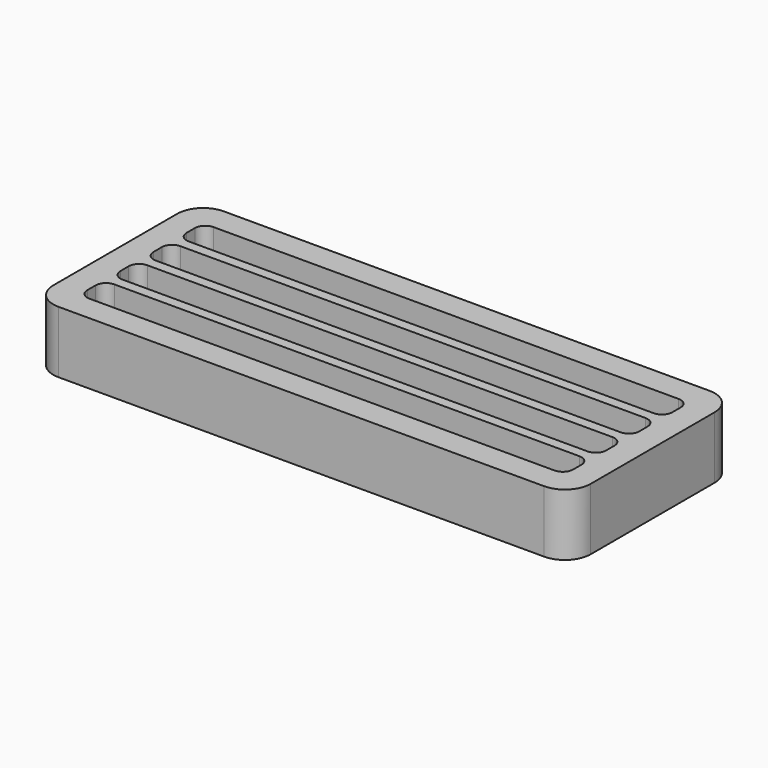
from build123d import *

# Parameters (mm, degrees)
F1_DEPTH = 10
F2_DEPTH = 2


with BuildPart() as f1:
    # F0 (on Top) → F1 (new body)
    with BuildSketch(Plane.XY):
        with BuildLine():
            Line((94, 35), (0, 35))
            ThreePointArc((0, 35), (-3.535534, 33.535534), (-5, 30))
            Line((-5, 30), (-5, 0))
            ThreePointArc((-5, 0), (-3.535534, -3.535534), (0, -5))
            Line((0, -5), (94, -5))
            ThreePointArc((94, -5), (97.535534, -3.535534), (99, 0))
            Line((99, 0), (99, 30))
            ThreePointArc((99, 30), (97.535534, 33.535534), (94, 35))
        make_face()
        with BuildLine():
            ThreePointArc((0, 4), (0.585786, 5.414214), (2, 6))
            Line((2, 6), (92, 6))
            ThreePointArc((92, 6), (93.414214, 5.414214), (94, 4))
            Line((94, 4), (94, 2))
            ThreePointArc((94, 2), (93.414214, 0.585786), (92, 0))
            Line((92, 0), (2, 0))
            ThreePointArc((2, 0), (0.585786, 0.585786), (0, 2))
            Line((0, 2), (0, 4))
        make_face(mode=Mode.SUBTRACT)
        with BuildLine():
            ThreePointArc((0, 12), (0.585786, 13.414214), (2, 14))
            Line((2, 14), (92, 14))
            ThreePointArc((92, 14), (93.414214, 13.414214), (94, 12))
            Line((94, 12), (94, 10))
            ThreePointArc((94, 10), (93.414214, 8.585786), (92, 8))
            Line((92, 8), (2, 8))
            ThreePointArc((2, 8), (0.585786, 8.585786), (0, 10))
            Line((0, 10), (0, 12))
        make_face(mode=Mode.SUBTRACT)
        with BuildLine():
            ThreePointArc((0, 20), (0.585786, 21.414214), (2, 22))
            Line((2, 22), (92, 22))
            ThreePointArc((92, 22), (93.414214, 21.414214), (94, 20))
            Line((94, 20), (94, 18))
            ThreePointArc((94, 18), (93.414214, 16.585786), (92, 16))
            Line((92, 16), (2, 16))
            ThreePointArc((2, 16), (0.585786, 16.585786), (0, 18))
            Line((0, 18), (0, 20))
        make_face(mode=Mode.SUBTRACT)
        with BuildLine():
            ThreePointArc((0, 28), (0.585786, 29.414214), (2, 30))
            Line((2, 30), (92, 30))
            ThreePointArc((92, 30), (93.414214, 29.414214), (94, 28))
            Line((94, 28), (94, 26))
            ThreePointArc((94, 26), (93.414214, 24.585786), (92, 24))
            Line((92, 24), (2, 24))
            ThreePointArc((2, 24), (0.585786, 24.585786), (0, 26))
            Line((0, 26), (0, 28))
        make_face(mode=Mode.SUBTRACT)
    extrude(amount=F1_DEPTH)

    # F0 (on Top) → F2 (join)
    with BuildSketch(Plane.XY):
        with BuildLine():
            Line((94, 35), (0, 35))
            ThreePointArc((0, 35), (-3.535534, 33.535534), (-5, 30))
            Line((-5, 30), (-5, 0))
            ThreePointArc((-5, 0), (-3.535534, -3.535534), (0, -5))
            Line((0, -5), (94, -5))
            ThreePointArc((94, -5), (97.535534, -3.535534), (99, 0))
            Line((99, 0), (99, 30))
            ThreePointArc((99, 30), (97.535534, 33.535534), (94, 35))
        make_face()
        with BuildLine():
            ThreePointArc((0, 4), (0.585786, 5.414214), (2, 6))
            Line((2, 6), (92, 6))
            ThreePointArc((92, 6), (93.414214, 5.414214), (94, 4))
            Line((94, 4), (94, 2))
            ThreePointArc((94, 2), (93.414214, 0.585786), (92, 0))
            Line((92, 0), (2, 0))
            ThreePointArc((2, 0), (0.585786, 0.585786), (0, 2))
            Line((0, 2), (0, 4))
        make_face(mode=Mode.SUBTRACT)
        with BuildLine():
            ThreePointArc((0, 12), (0.585786, 13.414214), (2, 14))
            Line((2, 14), (92, 14))
            ThreePointArc((92, 14), (93.414214, 13.414214), (94, 12))
            Line((94, 12), (94, 10))
            ThreePointArc((94, 10), (93.414214, 8.585786), (92, 8))
            Line((92, 8), (2, 8))
            ThreePointArc((2, 8), (0.585786, 8.585786), (0, 10))
            Line((0, 10), (0, 12))
        make_face(mode=Mode.SUBTRACT)
        with BuildLine():
            ThreePointArc((0, 20), (0.585786, 21.414214), (2, 22))
            Line((2, 22), (92, 22))
            ThreePointArc((92, 22), (93.414214, 21.414214), (94, 20))
            Line((94, 20), (94, 18))
            ThreePointArc((94, 18), (93.414214, 16.585786), (92, 16))
            Line((92, 16), (2, 16))
            ThreePointArc((2, 16), (0.585786, 16.585786), (0, 18))
            Line((0, 18), (0, 20))
        make_face(mode=Mode.SUBTRACT)
        with BuildLine():
            ThreePointArc((0, 28), (0.585786, 29.414214), (2, 30))
            Line((2, 30), (92, 30))
            ThreePointArc((92, 30), (93.414214, 29.414214), (94, 28))
            Line((94, 28), (94, 26))
            ThreePointArc((94, 26), (93.414214, 24.585786), (92, 24))
            Line((92, 24), (2, 24))
            ThreePointArc((2, 24), (0.585786, 24.585786), (0, 26))
            Line((0, 26), (0, 28))
        make_face(mode=Mode.SUBTRACT)
        with BuildLine():
            Line((92, 6), (2, 6))
            ThreePointArc((2, 6), (0.585786, 5.414214), (0, 4))
            Line((0, 4), (0, 2))
            ThreePointArc((0, 2), (0.585786, 0.585786), (2, 0))
            Line((2, 0), (92, 0))
            ThreePointArc((92, 0), (93.414214, 0.585786), (94, 2))
            Line((94, 2), (94, 4))
            ThreePointArc((94, 4), (93.414214, 5.414214), (92, 6))
        make_face()
        with BuildLine():
            Line((92, 14), (2, 14))
            ThreePointArc((2, 14), (0.585786, 13.414214), (0, 12))
            Line((0, 12), (0, 10))
            ThreePointArc((0, 10), (0.585786, 8.585786), (2, 8))
            Line((2, 8), (92, 8))
            ThreePointArc((92, 8), (93.414214, 8.585786), (94, 10))
            Line((94, 10), (94, 12))
            ThreePointArc((94, 12), (93.414214, 13.414214), (92, 14))
        make_face()
        with BuildLine():
            Line((92, 22), (2, 22))
            ThreePointArc((2, 22), (0.585786, 21.414214), (0, 20))
            Line((0, 20), (0, 18))
            ThreePointArc((0, 18), (0.585786, 16.585786), (2, 16))
            Line((2, 16), (92, 16))
            ThreePointArc((92, 16), (93.414214, 16.585786), (94, 18))
            Line((94, 18), (94, 20))
            ThreePointArc((94, 20), (93.414214, 21.414214), (92, 22))
        make_face()
        with BuildLine():
            Line((92, 30), (2, 30))
            ThreePointArc((2, 30), (0.585786, 29.414214), (0, 28))
            Line((0, 28), (0, 26))
            ThreePointArc((0, 26), (0.585786, 24.585786), (2, 24))
            Line((2, 24), (92, 24))
            ThreePointArc((92, 24), (93.414214, 24.585786), (94, 26))
            Line((94, 26), (94, 28))
            ThreePointArc((94, 28), (93.414214, 29.414214), (92, 30))
        make_face()
    extrude(amount=-F2_DEPTH)


solid = f1.part
